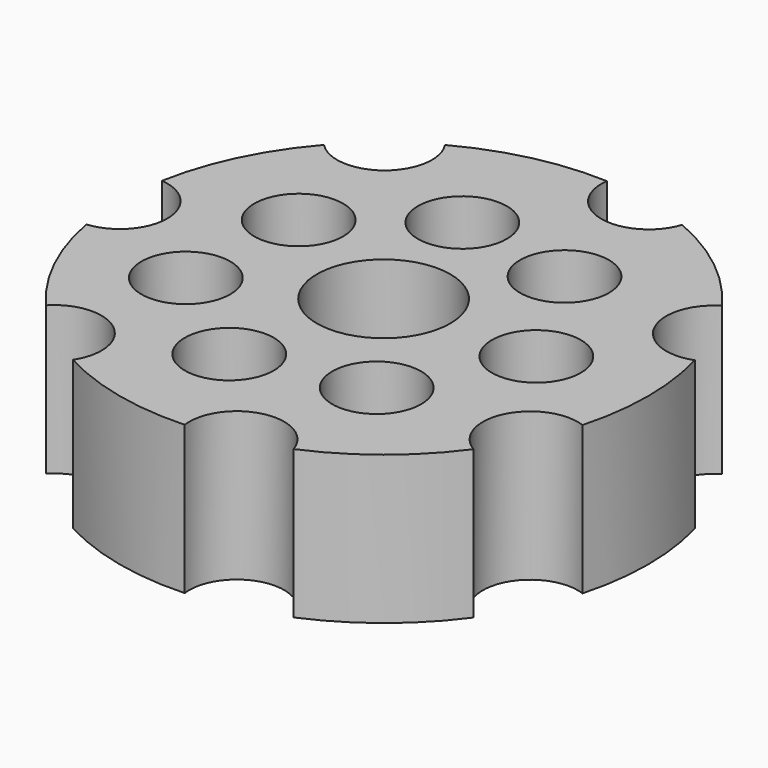
from build123d import *

# Parameters (mm, degrees)
CYLINDER_R        = 3.2
CYLINDER_DEPTH    = 10
ARRAY_COUNT       = 7
CYLINDER001_R     = 17.82
CYLINDER001_DEPTH = 10
SKETCH001_R       = 4.5
SKETCH001_R_2     = 3
POCKET_DEPTH      = 10.001


with BuildPart() as obj1:
    # Cylinder → Cylinder (new body)
    with BuildSketch(Plane.XY):
        Circle(CYLINDER_R)
    extrude(amount=CYLINDER_DEPTH)

    # Array: obj1 ×7 about axis
    array_axis = Axis((17.82, 0, 0), (0, 0, 1))


with BuildPart() as obj1_1:
    add(obj1.part)
    for i in range(1, ARRAY_COUNT):
        add(obj1.part.rotate(array_axis, i * 360 / ARRAY_COUNT))


with BuildPart() as obj2:
    # Cylinder001 → Cylinder001 (new body)
    with BuildSketch(Plane(origin=(17.82, 0, 0), x_dir=(1, 0, 0), z_dir=(0, 0, 1))):
        Circle(CYLINDER001_R)
    extrude(amount=CYLINDER001_DEPTH)

    # Cut: cut obj1
    add(obj1_1.part, mode=Mode.SUBTRACT)

    # Sketch001 → Pocket (cut, through all)
    with BuildSketch(Plane.XY.offset(10)):
        with Locations((17.82, -0.034345)):
            Circle(SKETCH001_R)
        with Locations((15.621058, 9.35508)):
            Circle(SKETCH001_R_2)
        with Locations((23.669142, 7.910553)):
            Circle(SKETCH001_R_2)
        with Locations((28.209085, -0.137526)):
            Circle(SKETCH001_R_2)
        with Locations((23.875502, -8.185606)):
            Circle(SKETCH001_R_2)
        with Locations((15.414699, -10.042854)):
            Circle(SKETCH001_R_2)
        with Locations((8.192065, -4.677468)):
            Circle(SKETCH001_R_2)
        with Locations((8.707965, 4.196056)):
            Circle(SKETCH001_R_2)
    extrude(amount=-POCKET_DEPTH, mode=Mode.SUBTRACT)


solid = obj2.part
